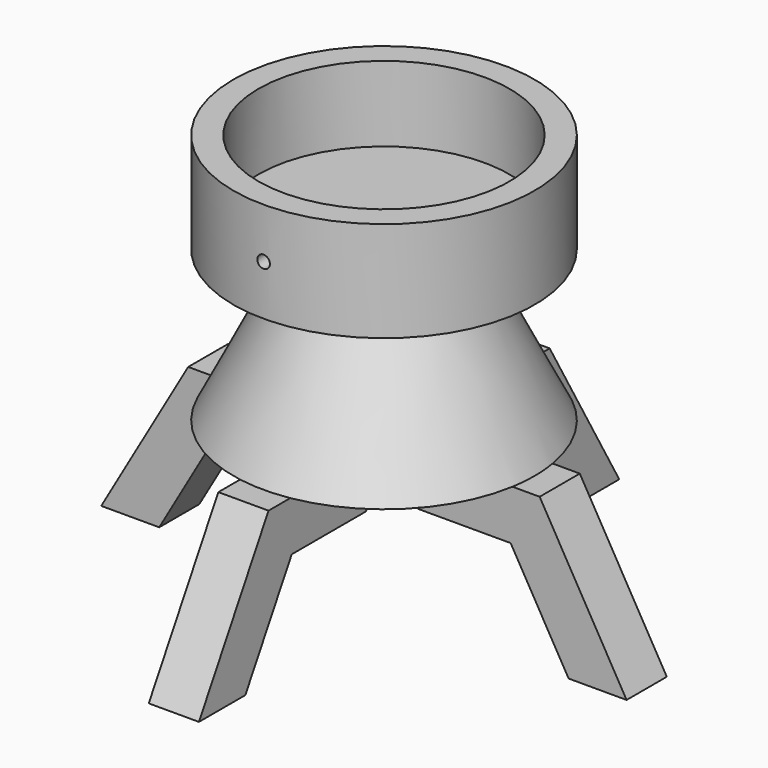
from build123d import *

# Parameters (mm, degrees)
F0_W      = 25.4
F0_H      = 76.2
F3_R      = 6.35
F4_DEPTH  = 50.8
F5_R      = 76.2
F7_R      = 152.4
F10_DEPTH = 25.4
F11_COUNT = 4


with BuildPart() as f1:
    # F0 (on Front) → F1 (revolve)
    with BuildSketch(Plane.XZ):
        with Locations((-139.7, 63.5)):
            Rectangle(F0_W, F0_H)
        Polygon((-152.4, 0), (0, 0), (0, 25.4), (-127, 25.4), (-152.4, 25.4), align=None)
    revolve(axis=Axis((0, 0, 12.7), (0, 0, 1)))

    # F3 (on offset) → F4 (cut)
    with BuildSketch(Plane.XZ.offset(152.4)):
        with Locations((0, 50.8)):
            Circle(F3_R)
    extrude(amount=-F4_DEPTH, mode=Mode.SUBTRACT)

    # F5 (on face) → F8 section 0
    with BuildSketch(Plane(origin=(0, 0, 0), x_dir=(1, 0, 0), z_dir=(0, 0, -1))):
        Circle(F5_R)
    # F7 (on offset) → F8 section 1
    with BuildSketch(Plane(origin=(0, 0, -152.4), x_dir=(1, 0, 0), z_dir=(0, 0, -1))):
        Circle(F7_R)
    loft()



with BuildPart() as f10:
    # F9 (on Right) → F10 (new body, symmetric)
    with BuildSketch(Plane.YZ):
        Polygon((177.8, -152.4), (25.4, -152.4), (54.7293936748, -203.2), (148.4706063252, -203.2), (207.1293936748, -304.8), (265.7881810245, -304.8), align=None)
    extrude(amount=F10_DEPTH, both=True)


with BuildPart() as f1_1:
    add(f1.part)

    add(f10.part)  # F11 merges F10
    # F11: F10 ×4 about axis
    f11_axis = Axis((0, 0, 0), (0, 0, -1))
    for i in range(1, F11_COUNT):
        add(f10.part.rotate(f11_axis, i * 360 / F11_COUNT))


solid = f1_1.part
